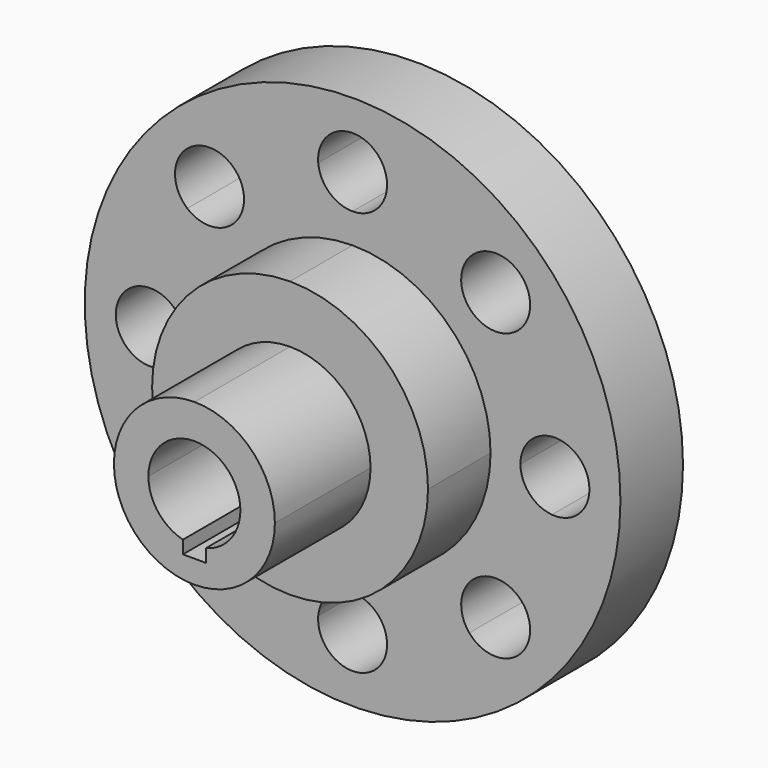
from build123d import *

# Parameters (mm, degrees)
F0_R     = 73.9775
F1_DEPTH = 21.59
F2_DEPTH = 43.18
F3_DEPTH = 76.2
F4_DEPTH = 50.8


with BuildPart() as f1:
    # F0 (on Front) → F1 (new body)
    with BuildSketch(Plane.XZ):
        Circle(F0_R)
        with BuildLine():
            ThreePointArc((45.6497912216, 32.2284185374), (51.6263882767, 21.3843502006), (55.0682102273, 9.4903436379))
            ThreePointArc((55.0682102273, 9.4903436379), (62.3217904116, 7.0163353179), (65.405, 0))
            ThreePointArc((65.405, 0), (62.3217904116, -7.0163353179), (55.0682102273, -9.4903436379))
            ThreePointArc((55.0682102273, -9.4903436379), (51.6263882767, -21.3843502006), (45.6497912216, -32.2284185374))
            ThreePointArc((45.6497912216, -32.2284185374), (48.1496005288, -35.4960448046), (49.0381269327, -39.5131269327))
            ThreePointArc((49.0381269327, -39.5131269327), (42.7795299647, -48.4605419914), (32.2284185374, -45.6497912216))
            ThreePointArc((32.2284185374, -45.6497912216), (21.3843502006, -51.6263882767), (9.4903436379, -55.0682102273))
            ThreePointArc((9.4903436379, -55.0682102273), (9.5163319654, -55.4737354007), (9.525, -55.88))
            ThreePointArc((9.525, -55.88), (-0.4062645993, -65.3963319654), (-9.4903436379, -55.0682102273))
            ThreePointArc((-9.4903436379, -55.0682102273), (-21.3843502006, -51.6263882767), (-32.2284185374, -45.6497912216))
            ThreePointArc((-32.2284185374, -45.6497912216), (-46.2483190235, -46.2483190235), (-45.6497912216, -32.2284185374))
            ThreePointArc((-45.6497912216, -32.2284185374), (-51.6263882767, -21.3843502006), (-55.0682102273, -9.4903436379))
            ThreePointArc((-55.0682102273, -9.4903436379), (-65.405, 0), (-55.0682102273, 9.4903436379))
            ThreePointArc((-55.0682102273, 9.4903436379), (-51.6263882767, 21.3843502006), (-45.6497912216, 32.2284185374))
            ThreePointArc((-45.6497912216, 32.2284185374), (-46.2483190235, 46.2483190235), (-32.2284185374, 45.6497912216))
            ThreePointArc((-32.2284185374, 45.6497912216), (-21.3843502006, 51.6263882767), (-9.4903436379, 55.0682102273))
            ThreePointArc((-9.4903436379, 55.0682102273), (-0.4062645993, 65.3963319654), (9.525, 55.88))
            ThreePointArc((9.525, 55.88), (9.5163319654, 55.4737354007), (9.4903436379, 55.0682102273))
            ThreePointArc((9.4903436379, 55.0682102273), (21.3843502006, 51.6263882767), (32.2284185374, 45.6497912216))
            ThreePointArc((32.2284185374, 45.6497912216), (42.7795299647, 48.4605419914), (49.0381269327, 39.5131269327))
            ThreePointArc((49.0381269327, 39.5131269327), (48.1496005288, 35.4960448046), (45.6497912216, 32.2284185374))
        make_face(mode=Mode.SUBTRACT)
        with BuildLine():
            ThreePointArc((0, 38.1), (26.9407683632, 26.9407683632), (38.1, 0))
            Line((38.1, 0), (46.355, 0))
            ThreePointArc((46.355, 0), (48.8636646821, 6.4417904116), (55.0682102273, 9.4903436379))
            ThreePointArc((55.0682102273, 9.4903436379), (51.6263882767, 21.3843502006), (45.6497912216, 32.2284185374))
            ThreePointArc((45.6497912216, 32.2284185374), (32.7779348419, 32.7779348419), (32.2284185374, 45.6497912216))
            ThreePointArc((32.2284185374, 45.6497912216), (21.3843502006, 51.6263882767), (9.4903436379, 55.0682102273))
            ThreePointArc((9.4903436379, 55.0682102273), (6.4417904116, 48.8636646821), (0, 46.355))
            Line((0, 46.355), (0, 38.1))
        make_face()
        with BuildLine():
            ThreePointArc((-38.1, 0), (-26.9407683632, 26.9407683632), (0, 38.1))
            Line((0, 38.1), (0, 46.355))
            ThreePointArc((0, 46.355), (-6.4417904116, 48.8636646821), (-9.4903436379, 55.0682102273))
            ThreePointArc((-9.4903436379, 55.0682102273), (-21.3843502006, 51.6263882767), (-32.2284185374, 45.6497912216))
            ThreePointArc((-32.2284185374, 45.6497912216), (-30.565711874, 42.7795299647), (-29.9881269327, 39.5131269327))
            ThreePointArc((-29.9881269327, 39.5131269327), (-35.4960448046, 30.8766533366), (-45.6497912216, 32.2284185374))
            ThreePointArc((-45.6497912216, 32.2284185374), (-51.6263882767, 21.3843502006), (-55.0682102273, 9.4903436379))
            ThreePointArc((-55.0682102273, 9.4903436379), (-48.8636646821, 6.4417904116), (-46.355, 0))
            Line((-46.355, 0), (-38.1, 0))
        make_face()
        with BuildLine():
            Line((0, -46.355), (0, -38.1))
            ThreePointArc((0, -38.1), (-26.9407683632, -26.9407683632), (-38.1, 0))
            Line((-38.1, 0), (-46.355, 0))
            ThreePointArc((-46.355, 0), (-48.8636646821, -6.4417904116), (-55.0682102273, -9.4903436379))
            ThreePointArc((-55.0682102273, -9.4903436379), (-51.6263882767, -21.3843502006), (-45.6497912216, -32.2284185374))
            ThreePointArc((-45.6497912216, -32.2284185374), (-35.4960448046, -30.8766533366), (-29.9881269327, -39.5131269327))
            ThreePointArc((-29.9881269327, -39.5131269327), (-30.565711874, -42.7795299647), (-32.2284185374, -45.6497912216))
            ThreePointArc((-32.2284185374, -45.6497912216), (-21.3843502006, -51.6263882767), (-9.4903436379, -55.0682102273))
            ThreePointArc((-9.4903436379, -55.0682102273), (-6.4417904116, -48.8636646821), (0, -46.355))
        make_face()
        with BuildLine():
            Line((46.355, 0), (38.1, 0))
            ThreePointArc((38.1, 0), (26.9407683632, -26.9407683632), (0, -38.1))
            Line((0, -38.1), (0, -46.355))
            ThreePointArc((0, -46.355), (6.4417904116, -48.8636646821), (9.4903436379, -55.0682102273))
            ThreePointArc((9.4903436379, -55.0682102273), (21.3843502006, -51.6263882767), (32.2284185374, -45.6497912216))
            ThreePointArc((32.2284185374, -45.6497912216), (32.7779348419, -32.7779348419), (45.6497912216, -32.2284185374))
            ThreePointArc((45.6497912216, -32.2284185374), (51.6263882767, -21.3843502006), (55.0682102273, -9.4903436379))
            ThreePointArc((55.0682102273, -9.4903436379), (48.8636646821, -6.4417904116), (46.355, 0))
        make_face()
    extrude(amount=F1_DEPTH)

    # F0 (on Front) → F2 (join)
    with BuildSketch(Plane.XZ):
        with BuildLine():
            ThreePointArc((-22.225, 0), (-15.7154482119, 15.7154482119), (0, 22.225))
            Line((0, 22.225), (0, 38.1))
            ThreePointArc((0, 38.1), (-26.9407683632, 26.9407683632), (-38.1, 0))
            Line((-38.1, 0), (-22.225, 0))
        make_face()
        with BuildLine():
            Line((0, -38.1), (0, -22.225))
            ThreePointArc((0, -22.225), (-15.7154482119, -15.7154482119), (-22.225, 0))
            Line((-22.225, 0), (-38.1, 0))
            ThreePointArc((-38.1, 0), (-26.9407683632, -26.9407683632), (0, -38.1))
        make_face()
        with BuildLine():
            Line((38.1, 0), (22.225, 0))
            ThreePointArc((22.225, 0), (15.7154482119, -15.7154482119), (0, -22.225))
            Line((0, -22.225), (0, -38.1))
            ThreePointArc((0, -38.1), (26.9407683632, -26.9407683632), (38.1, 0))
        make_face()
        with BuildLine():
            ThreePointArc((0, 22.225), (15.7154482119, 15.7154482119), (22.225, 0))
            Line((22.225, 0), (38.1, 0))
            ThreePointArc((38.1, 0), (26.9407683632, 26.9407683632), (0, 38.1))
            Line((0, 38.1), (0, 22.225))
        make_face()
    extrude(amount=F2_DEPTH)

    # F0 (on Front) → F3 (join)
    with BuildSketch(Plane.XZ):
        with BuildLine():
            ThreePointArc((-12.7, 0), (-8.9802561211, 8.9802561211), (0, 12.7))
            Line((0, 12.7), (0, 22.225))
            ThreePointArc((0, 22.225), (-15.7154482119, 15.7154482119), (-22.225, 0))
            Line((-22.225, 0), (-12.7, 0))
        make_face()
        with BuildLine():
            ThreePointArc((0, 12.7), (8.9802561211, 8.9802561211), (12.7, 0))
            Line((12.7, 0), (22.225, 0))
            ThreePointArc((22.225, 0), (15.7154482119, 15.7154482119), (0, 22.225))
            Line((0, 22.225), (0, 12.7))
        make_face()
        with BuildLine():
            Line((22.225, 0), (12.7, 0))
            ThreePointArc((12.7, 0), (10.040231571, -7.7771299333), (3.175, -12.2967221242))
            Line((3.175, -12.2967221242), (3.175, -15.875))
            Line((3.175, -15.875), (0, -15.875))
            Line((0, -15.875), (0, -22.225))
            ThreePointArc((0, -22.225), (15.7154482119, -15.7154482119), (22.225, 0))
        make_face()
        with BuildLine():
            ThreePointArc((-3.175, -12.2967221242), (-10.040231571, -7.7771299333), (-12.7, 0))
            Line((-12.7, 0), (-22.225, 0))
            ThreePointArc((-22.225, 0), (-15.7154482119, -15.7154482119), (0, -22.225))
            Line((0, -22.225), (0, -15.875))
            Line((0, -15.875), (-3.175, -15.875))
            Line((-3.175, -15.875), (-3.175, -12.2967221242))
        make_face()
    extrude(amount=F3_DEPTH)

    # F0 (on Front) → F4 (join)
    with BuildSketch(Plane.XZ):
        with BuildLine():
            ThreePointArc((3.175, -12.2967221242), (10.040231571, -7.7771299333), (12.7, 0))
            Line((12.7, 0), (0, 0))
            Line((0, 0), (0, -9.525))
            Line((0, -9.525), (3.175, -9.525))
            Line((3.175, -9.525), (3.175, -12.2967221242))
        make_face()
        with BuildLine():
            Line((0, -9.525), (0, 0))
            Line((0, 0), (-12.7, 0))
            ThreePointArc((-12.7, 0), (-10.040231571, -7.7771299333), (-3.175, -12.2967221242))
            Line((-3.175, -12.2967221242), (-3.175, -9.525))
            Line((-3.175, -9.525), (0, -9.525))
        make_face()
        with BuildLine():
            Line((0, 0), (0, 12.7))
            ThreePointArc((0, 12.7), (-8.9802561211, 8.9802561211), (-12.7, 0))
            Line((-12.7, 0), (0, 0))
        make_face()
        with BuildLine():
            Line((0, 0), (12.7, 0))
            ThreePointArc((12.7, 0), (8.9802561211, 8.9802561211), (0, 12.7))
            Line((0, 12.7), (0, 0))
        make_face()
        with BuildLine():
            Line((0, -15.875), (0, -12.7))
            ThreePointArc((0, -12.7), (-1.6002545145, -12.5987771426), (-3.175, -12.2967221242))
            Line((-3.175, -12.2967221242), (-3.175, -15.875))
            Line((-3.175, -15.875), (0, -15.875))
        make_face()
        with BuildLine():
            ThreePointArc((0, -12.7), (1.6002545145, -12.5987771426), (3.175, -12.2967221242))
            Line((3.175, -12.2967221242), (3.175, -9.525))
            Line((3.175, -9.525), (0, -9.525))
            Line((0, -9.525), (0, -12.7))
        make_face()
        with BuildLine():
            Line((3.175, -15.875), (3.175, -12.2967221242))
            ThreePointArc((3.175, -12.2967221242), (1.6002545145, -12.5987771426), (0, -12.7))
            Line((0, -12.7), (0, -15.875))
            Line((0, -15.875), (3.175, -15.875))
        make_face()
        with BuildLine():
            ThreePointArc((-3.175, -12.2967221242), (-1.6002545145, -12.5987771426), (0, -12.7))
            Line((0, -12.7), (0, -9.525))
            Line((0, -9.525), (-3.175, -9.525))
            Line((-3.175, -9.525), (-3.175, -12.2967221242))
        make_face()
    extrude(amount=F4_DEPTH)


solid = f1.part
